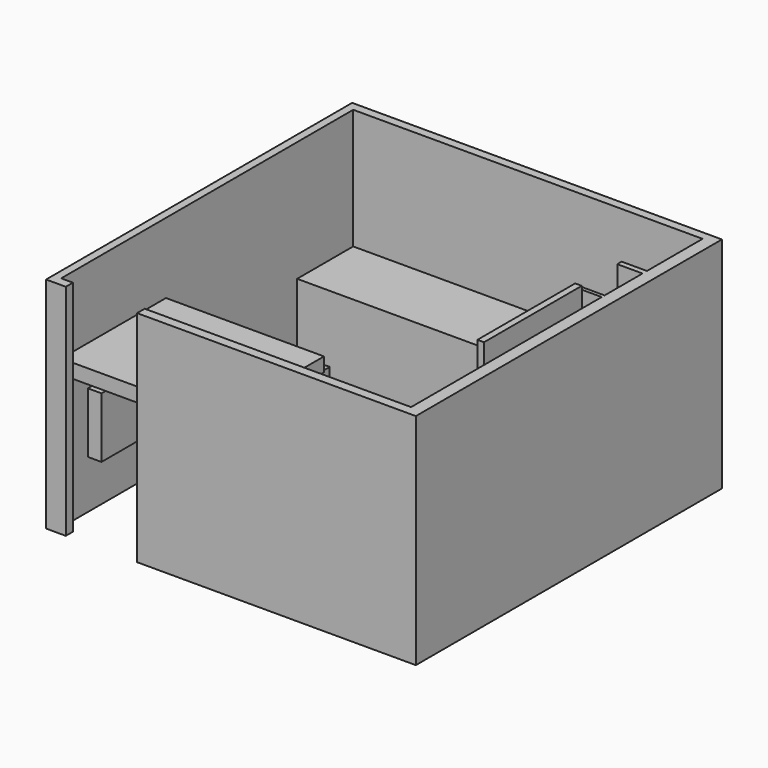
from build123d import *

# Parameters (mm, degrees)
F1_DEPTH  = 111
F2_W      = 66.2911757827
F2_H      = 7.1583017707
F3_DEPTH  = 80
F4_W      = 33.8499044473
F4_H      = 51.190990489
F5_DEPTH  = 21.5
F4_W_2    = 41.0357561548
F4_H_2    = 19.3237248852
F6_DEPTH  = 38.7
F2_W_2    = 49.4063384831
F2_H_2    = 30.5613465607
F7_DEPTH  = 6.9
F2_W_3    = 35.4777190369
F2_H_3    = 50.0976517797
F8_DEPTH  = 177
F9_W      = 35.2059740108
F9_H      = 6.5847709775
F9_H_2    = 6.1777755618
F9_W_2    = 24.0235412493
F9_H_3    = 4.6266447753
F9_H_4    = 3.5054106265
F9_H_5    = 4.0854457766
F10_DEPTH = 12.8
F0_W      = 3.3271610737
F0_H      = 61.8747617118
F11_DEPTH = 112.9
F12_DEPTH = 68.6
F0_W_2    = 4.0784408338
F0_H_2    = 37.3633932322
F2_W_4    = 10.1927583568
F2_H_4    = 2.573677036
F13_DEPTH = 16.7
F4_W_3    = 21.8747425824
F4_H_3    = 21.4845836163
F14_DEPTH = 31
F15_DEPTH = 9.5
F16_W     = 15.9703567624
F16_H     = 21.1976245046
F17_DEPTH = 6.7
F4_W_4    = 23.4713996761
F4_H_4    = 18.2081488892
F18_DEPTH = 35.6
F19_W     = 16.7799182236
F19_H     = 14.4109842367
F20_DEPTH = 21.1


with BuildPart() as f1:
    # F0 (on Top) → F1 (new body)
    with BuildSketch(Plane.XY):
        Polygon((-39.0192046762, -70.7977563143), (-29.0382634848, -70.7977563143), (-29.0382634848, -66.2911757827), (-34.9868237972, -66.2911757827), (-34.9868237972, 118.4833857697), (141.8753154576, 118.4833857697), (141.8753154576, -7.4747162871), (141.8753154576, -12.1487416327), (141.8753154576, -65.9745484591), (19.0313281491, -65.9745484591), (14.9528873153, -65.9745484591), (7.0473095402, -65.9745484591), (7.0473095402, -70.7977563143), (148.1556966901, -70.7977563143), (148.1556966901, 122.8667423129), (-39.0192046762, 122.8667423129), align=None)
    extrude(amount=F1_DEPTH)

    # F2 (on face) → F3 (join)
    with BuildSketch(Plane.YZ.offset(-34.9868237972)):
        with Locations((-33.1455878913, 71.698885411)):
            Rectangle(F2_W, F2_H)
    extrude(amount=F3_DEPTH)

    # F2 (on face) → F8 (join)
    with BuildSketch(Plane.YZ.offset(-34.9868237972)):
        with Locations((100.7445262512, 25.0488258898)):
            Rectangle(F2_W_3, F2_H_3)
    extrude(amount=F8_DEPTH)

    # F9 (on face) → F10 (join)
    with BuildSketch(Plane(origin=(141.8753154576, 0, 0), x_dir=(0, -1, 0), z_dir=(-1, 0, 0))):
        with Locations((-100.8803987643, 70.0691230595)):
            Rectangle(F9_W, F9_H)
        with Locations((-100.8803987643, 93.3822579682)):
            Rectangle(F9_W, F9_H_2)
        with Locations((-68.4825261123, 32.1233579889)):
            Rectangle(F9_W_2, F9_H_3)
        with Locations((-68.4825261123, 59.535395354)):
            Rectangle(F9_W_2, F9_H_4)
        with Locations((-68.4825261123, 87.3538330197)):
            Rectangle(F9_W_2, F9_H_5)
        Polygon((-83.0056667328, 0), (-80.494296737, 0), (-80.494296737, 29.8100356013), (-80.494296737, 34.4366803765), (-80.494296737, 57.7826900408), (-80.494296737, 61.2881006673), (-80.494296737, 85.3111101314), (-80.494296737, 89.396555908), (-80.494296737, 111), (-83.2774117589, 111), (-83.2774117589, 96.4711457491), (-83.2774117589, 90.2933701873), (-83.2774117589, 73.3615085483), (-83.2774117589, 66.7767375708), (-83.2774117589, 50.0976517797), (-83.0056667328, 50.0976517797), align=None)
        Polygon((-56.4707554877, 0), (-54.6564869583, 0), (-54.6564869583, 111), (-56.4707554877, 111), (-56.4707554877, 89.396555908), (-56.4707554877, 85.3111101314), (-56.4707554877, 61.2881006673), (-56.4707554877, 57.7826900408), (-56.4707554877, 34.4366803765), (-56.4707554877, 29.8100356013), align=None)
    extrude(amount=F10_DEPTH)

    # F2 (on face) → F13 (join)
    with BuildSketch(Plane.YZ.offset(-34.9868237972)):
        with Locations((11.6460346852, 61.4578317269)):
            Rectangle(F2_W_4, F2_H_4)
        with Locations((22.5085848942, 52.332457155)):
            Rectangle(F2_W_4, F2_H_4)
        with Locations((33.6336530745, 43.2157292962)):
            Rectangle(F2_W_4, F2_H_4)
        with Locations((44.3251021206, 34.3965180218)):
            Rectangle(F2_W_4, F2_H_4)
        with Locations((55.0593063235, 25.7322858088)):
            Rectangle(F2_W_4, F2_H_4)
    extrude(amount=F13_DEPTH)

    # F0 (on Top) → F15 (join)
    with BuildSketch(Plane.XY):
        Polygon((-8.019303903, 83.3232104778), (-34.4510264695, 83.3232104778), (-34.4510264695, 61.8080422282), (-23.7644277513, 61.8080422282), (-8.019303903, 61.8080422282), align=None)
    extrude(amount=F15_DEPTH)

    # F16 (on face) → F17 (join)
    with BuildSketch(Plane.XY.offset(9.5)):
        with Locations((-26.4658480883, 72.4068544805)):
            Rectangle(F16_W, F16_H)
    extrude(amount=F17_DEPTH)


with BuildPart() as f5:
    # F4 (on Top) → F5 (new body)
    with BuildSketch(Plane.XY):
        with Locations((104.9176470698, 19.3053778683)):
            Rectangle(F4_W, F4_H)
    extrude(amount=F5_DEPTH)


with BuildPart() as f6:
    # F4 (on Top) → F6 (new body)
    with BuildSketch(Plane.XY):
        with Locations((63.3065112228, 3.3717450664)):
            Rectangle(F4_W_2, F4_H_2)
    extrude(amount=F6_DEPTH)

    # F19 (on face) → F20 (cut)
    with BuildSketch(Plane.XY.offset(38.7)):
        with Locations((45.0764577836, 4.2080634739)):
            Rectangle(F19_W, F19_H)
    extrude(amount=-F20_DEPTH, mode=Mode.SUBTRACT)


with BuildPart() as f7:
    # F2 (on face) → F7 (new body)
    with BuildSketch(Plane.YZ.offset(-34.9868237972)):
        with Locations((-24.7031692415, 39.8319084197)):
            Rectangle(F2_W_2, F2_H_2)
    extrude(amount=F7_DEPTH)


with BuildPart() as f11:
    # F0 (on Top) → F11 (new body)
    with BuildSketch(Plane.XY):
        with Locations((130.3210556507, 23.4626645688)):
            Rectangle(F0_W, F0_H)
    extrude(amount=F11_DEPTH)


with BuildPart() as f12:
    # F0 (on Top) → F12 (new body)
    with BuildSketch(Plane.XY):
        Polygon((141.8753154576, -12.1487416327), (141.8753154576, -7.4747162871), (131.9846361876, -7.4747162871), (128.6574751139, -7.4747162871), (14.9528873153, -7.4747162871), (14.9528873153, -12.1487416327), align=None)
    extrude(amount=F12_DEPTH)


with BuildPart() as f12b:
    # F0 (on Top) → F12, piece 2 (new body)
    with BuildSketch(Plane.XY):
        with Locations((16.9921077322, -47.2928518429)):
            Rectangle(F0_W_2, F0_H_2)
    extrude(amount=F12_DEPTH)


with BuildPart() as f14:
    # F4 (on Top) → F14 (new body)
    with BuildSketch(Plane.XY):
        with Locations((-21.203934215, 37.6756563783)):
            Rectangle(F4_W_3, F4_H_3)
    extrude(amount=F14_DEPTH)


with BuildPart() as f18:
    # F4 (on Top) → F18 (new body)
    with BuildSketch(Plane.XY):
        with Locations((26.9174149726, 2.8752870858)):
            Rectangle(F4_W_4, F4_H_4)
    extrude(amount=F18_DEPTH)


solid = Compound([f1.part, f5.part, f6.part, f7.part, f11.part, f12.part, f12b.part, f14.part, f18.part])
